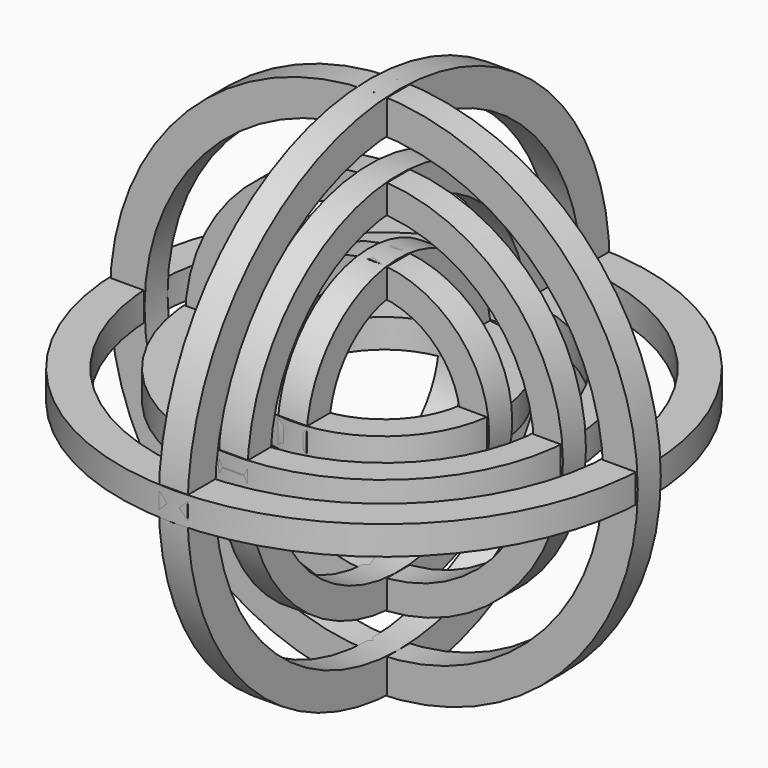
from build123d import *

# Parameters (mm, degrees)
F0_R     = 16.6949720999
F0_R_2   = 14.1549719201
F3_DEPTH = 1.27
F0_R_3   = 23.3045521035
F0_R_4   = 20.2565528229
F0_R_5   = 10.1858982799
F0_R_6   = 7.6458982799
F1_R     = 23.3045521035
F1_R_2   = 20.2565528229
F4_DEPTH = 1.27
F1_R_3   = 16.6949720999
F1_R_4   = 14.1549719201
F1_R_5   = 10.1858982799
F1_R_6   = 7.6458982799
F2_R     = 23.3045521035
F2_R_2   = 20.2565528229
F5_DEPTH = 1.27
F2_R_3   = 16.6949720999
F2_R_4   = 14.1549719201
F2_R_5   = 10.1858982799
F2_R_6   = 7.6458982799


with BuildPart() as f3:
    # F0 (on Top) → F3 (new body, symmetric)
    with BuildSketch(Plane.XY):
        Circle(F0_R)
        Circle(F0_R_2, mode=Mode.SUBTRACT)
    extrude(amount=F3_DEPTH, both=True)


with BuildPart() as f3b:
    # F0 (on Top) → F3, piece 2 (new body, symmetric)
    with BuildSketch(Plane.XY):
        Circle(F0_R_3)
        Circle(F0_R_4, mode=Mode.SUBTRACT)
    extrude(amount=F3_DEPTH, both=True)


with BuildPart() as f3c:
    # F0 (on Top) → F3, piece 3 (new body, symmetric)
    with BuildSketch(Plane.XY):
        Circle(F0_R_5)
        Circle(F0_R_6, mode=Mode.SUBTRACT)
    extrude(amount=F3_DEPTH, both=True)


with BuildPart() as f4:
    # F1 (on Front) → F4 (new body, symmetric)
    with BuildSketch(Plane.XZ):
        with Locations((0.1252256334, -0.0315979123)):
            Circle(F1_R)
        with Locations((0.1252256334, -0.0315979123)):
            Circle(F1_R_2, mode=Mode.SUBTRACT)
    extrude(amount=F4_DEPTH, both=True)


with BuildPart() as f4b:
    # F1 (on Front) → F4, piece 2 (new body, symmetric)
    with BuildSketch(Plane.XZ):
        with Locations((0.1252256334, -0.0315979123)):
            Circle(F1_R_3)
        with Locations((0.1252256334, -0.0315979123)):
            Circle(F1_R_4, mode=Mode.SUBTRACT)
    extrude(amount=F4_DEPTH, both=True)


with BuildPart() as f4c:
    # F1 (on Front) → F4, piece 3 (new body, symmetric)
    with BuildSketch(Plane.XZ):
        with Locations((0.1252256334, -0.0315979123)):
            Circle(F1_R_5)
        with Locations((0.1252256334, -0.0315979123)):
            Circle(F1_R_6, mode=Mode.SUBTRACT)
    extrude(amount=F4_DEPTH, both=True)


with BuildPart() as f5:
    # F2 (on Right) → F5 (new body, symmetric)
    with BuildSketch(Plane.YZ):
        with Locations((0.0259019434, 0.0259019434)):
            Circle(F2_R)
        with Locations((0.0259019434, 0.0259019434)):
            Circle(F2_R_2, mode=Mode.SUBTRACT)
    extrude(amount=F5_DEPTH, both=True)


with BuildPart() as f5b:
    # F2 (on Right) → F5, piece 2 (new body, symmetric)
    with BuildSketch(Plane.YZ):
        with Locations((0.0259019434, 0.0259019434)):
            Circle(F2_R_3)
        with Locations((0.0259019434, 0.0259019434)):
            Circle(F2_R_4, mode=Mode.SUBTRACT)
    extrude(amount=F5_DEPTH, both=True)


with BuildPart() as f5c:
    # F2 (on Right) → F5, piece 3 (new body, symmetric)
    with BuildSketch(Plane.YZ):
        with Locations((0.0259019434, 0.0259019434)):
            Circle(F2_R_5)
        with Locations((0.0259019434, 0.0259019434)):
            Circle(F2_R_6, mode=Mode.SUBTRACT)
    extrude(amount=F5_DEPTH, both=True)


solid = Compound([f3.part, f3b.part, f3c.part, f4.part, f4b.part, f4c.part, f5.part, f5b.part, f5c.part])
